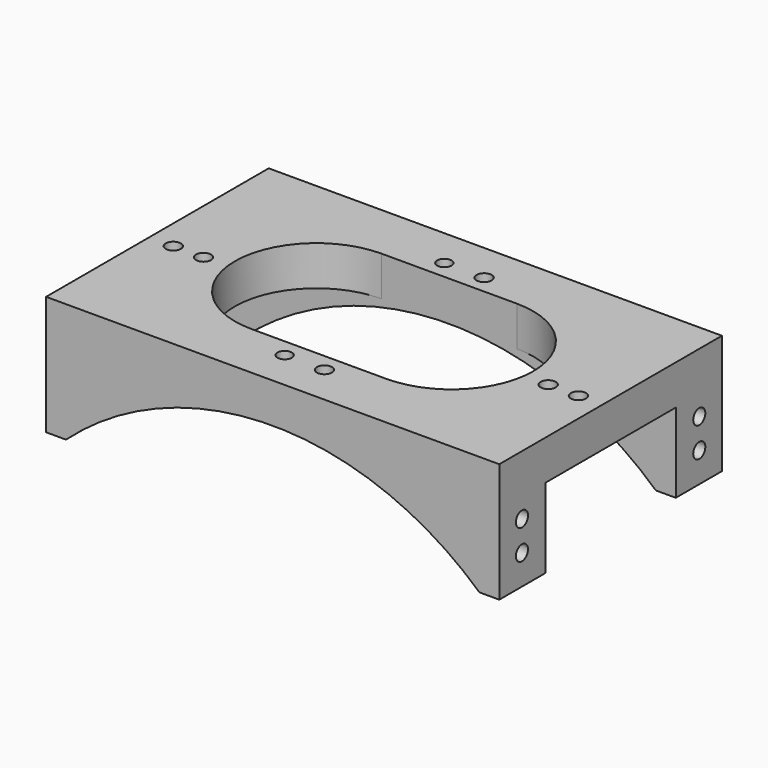
from build123d import *

# Parameters (mm, degrees)
SKETCH090_W     = 114
SKETCH090_H     = 70
PAD024_DEPTH    = 30
POCKET058_DEPTH = 30.001
POCKET059_DEPTH = 70.001
SKETCH092_W     = 41
SKETCH092_H     = 20
POCKET060_DEPTH = 114.001
SKETCH093_R     = 1.8
SKETCH093_R_2   = 1.9
POCKET061_DEPTH = 30.001
SKETCH094_R     = 1.9
POCKET062_DEPTH = 114.001
SKETCH095_R     = 4.5
POCKET063_DEPTH = 29
SKETCH096_R     = 4.5
POCKET064_DEPTH = 29
SKETCH097_R     = 1.9
POCKET065_DEPTH = 30.001


with BuildPart() as part:
    # Sketch090 → Pad024 (new body)
    with BuildSketch(Plane.XY):
        with Locations((57, 35)):
            Rectangle(SKETCH090_W, SKETCH090_H)
    extrude(amount=PAD024_DEPTH)

    # Sketch091 (on Face6 of Pad024) → Pocket058 (cut, through all)
    with BuildSketch(Plane.XY.offset(30)):
        with BuildLine():
            Line((40, 14.5), (74, 14.5))
            ThreePointArc((74, 14.5), (94.5, 35), (74, 55.5))
            Line((74, 55.5), (40, 55.5))
            ThreePointArc((40, 55.5), (19.5, 35), (40, 14.5))
        make_face()
    extrude(amount=-POCKET058_DEPTH, mode=Mode.SUBTRACT)

    # Sketch069 (on Face1 of Pocket058) → Pocket059 (cut, through all)
    with BuildSketch(Plane.XZ):
        with BuildLine():
            Line((5, 0), (109, 0))
            ThreePointArc((109, 0), (57, 20), (5, 0))
        make_face()
    extrude(amount=-POCKET059_DEPTH, mode=Mode.SUBTRACT)

    # Sketch092 (on Face7 of Pocket059) → Pocket060 (cut, through all)
    with BuildSketch(Plane(origin=(0, 0, 0), x_dir=(0, -1, 0), z_dir=(-1, 0, 0))):
        with Locations((-35, 10)):
            Rectangle(SKETCH092_W, SKETCH092_H)
    extrude(amount=-POCKET060_DEPTH, mode=Mode.SUBTRACT)

    # Sketch093 (on Face6 of Pocket060) → Pocket061 (cut, through all)
    with BuildSketch(Plane.XY.offset(30)):
        with Locations((52.1, 60.1)):
            Circle(SKETCH093_R)
        with Locations((62.1, 60.1)):
            Circle(SKETCH093_R_2)
        with Locations((52.1, 9.9)):
            Circle(SKETCH093_R)
        with Locations((62.1, 9.9)):
            Circle(SKETCH093_R_2)
    extrude(amount=-POCKET061_DEPTH, mode=Mode.SUBTRACT)

    # Sketch094 (on Face5 of Pocket061) → Pocket062 (cut, through all)
    with BuildSketch(Plane.YZ.offset(114)):
        with Locations((7.12, 15)):
            Circle(SKETCH094_R)
        with Locations((7.12, 7.5)):
            Circle(SKETCH094_R)
        with Locations((62.88, 15)):
            Circle(SKETCH094_R)
        with Locations((62.88, 7.5)):
            Circle(SKETCH094_R)
    extrude(amount=-POCKET062_DEPTH, mode=Mode.SUBTRACT)

    # Sketch095 (on DatumPlane) → Pocket063 (cut)
    with BuildSketch(Plane.YZ.offset(94)):
        with Locations((7.12, 15)):
            Circle(SKETCH095_R)
        with Locations((62.88, 15)):
            Circle(SKETCH095_R)
    extrude(amount=-POCKET063_DEPTH, mode=Mode.SUBTRACT)

    # Sketch096 (on DatumPlane) → Pocket064 (cut)
    with BuildSketch(Plane(origin=(20, 0, 0), x_dir=(0, -1, 0), z_dir=(-1, 0, 0))):
        with Locations((-62.88, 15)):
            Circle(SKETCH096_R)
        with Locations((-7.12, 15)):
            Circle(SKETCH096_R)
    extrude(amount=-POCKET064_DEPTH, mode=Mode.SUBTRACT)

    # Sketch097 (on Face6 of Pocket064) → Pocket065 (cut, through all)
    with BuildSketch(Plane.XY.offset(30)):
        with Locations((100.35, 32.44)):
            Circle(SKETCH097_R)
        with Locations((107.95, 32.44)):
            Circle(SKETCH097_R)
        with Locations((6.05, 32.44)):
            Circle(SKETCH097_R)
        with Locations((13.65, 32.44)):
            Circle(SKETCH097_R)
    extrude(amount=-POCKET065_DEPTH, mode=Mode.SUBTRACT)


with BuildPart() as part_1:
    # Body010 placement: moved
    add(part.part.moved(Location((18, 30, -2))))


solid = part_1.part
